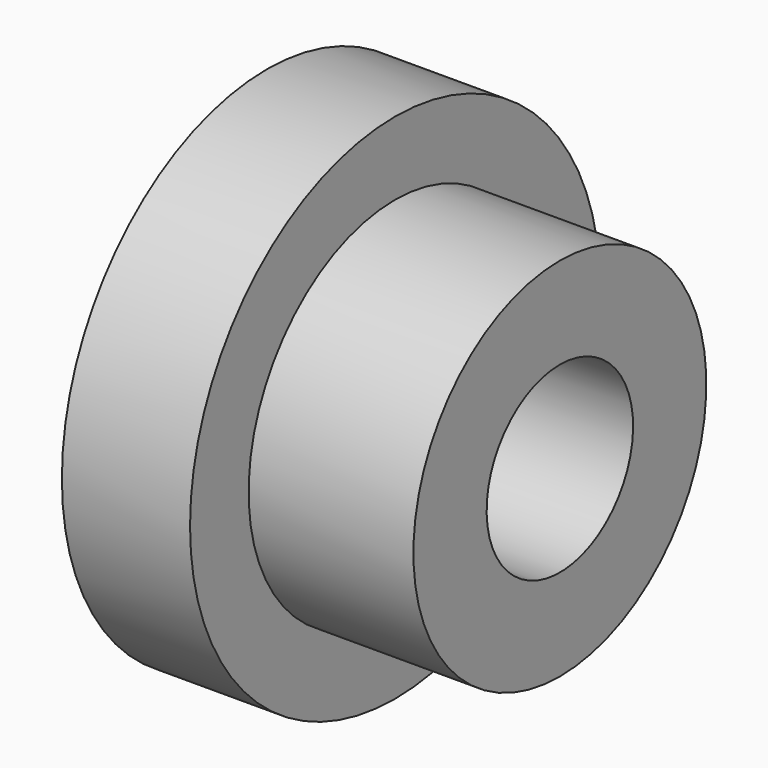
from build123d import *

# Parameters (mm, degrees)
F0_W = 4.5
F0_H = 2.5


with BuildPart() as f1:
    # F0 (on Front) → F1 (revolve)
    with BuildSketch(Plane.XZ):
        Polygon((0, 7), (0, 2.5), (3.5, 2.5), (3.5, 5), (3.5, 7), align=None)
        with Locations((5.75, 3.75)):
            Rectangle(F0_W, F0_H)
    revolve(axis=Axis((4.404856, 0, 0), (1, 0, 0)))


solid = f1.part
